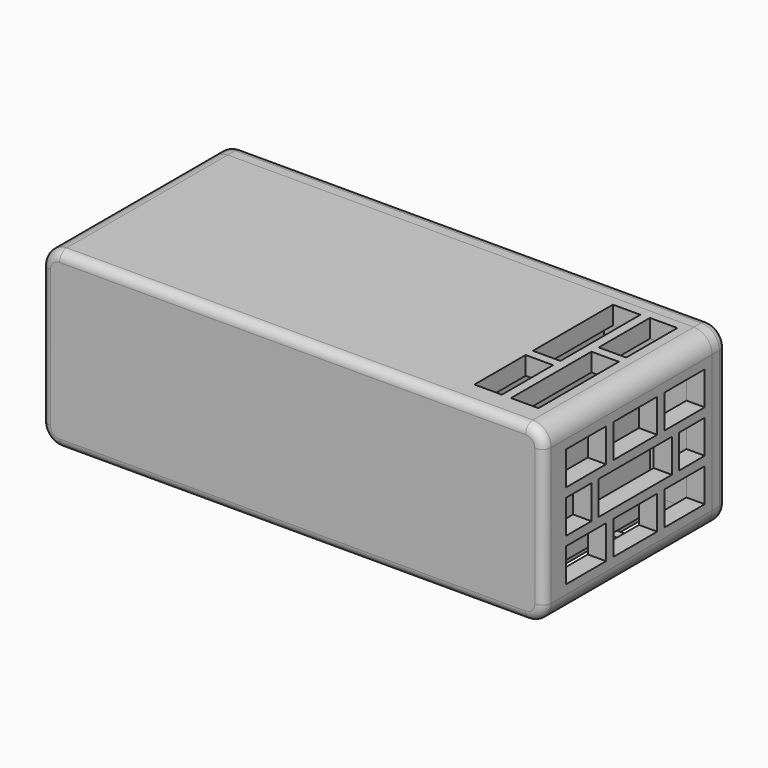
from build123d import *

# Parameters (mm, degrees)
BOX_W                   = 40
BOX_H                   = 19
BOX_DEPTH               = 4
BOX001_W                = 6
BOX001_H                = 8
BOX001_DEPTH            = 3
BOX002_W                = 38
BOX002_H                = 17
BOX002_DEPTH            = 5
BOX003_W                = 13
BOX003_H                = 16
BOX003_DEPTH            = 3
BODY002_PLACEMENT_ANGLE = 90
BOX004_W                = 55
BOX004_H                = 23
BOX004_DEPTH            = 19
SKETCH005_W             = 9
SKETCH005_H             = 15
POCKET_DEPTH            = 21
BOX006_W                = 4
BOX006_H                = 5
BOX006_DEPTH            = 4
SKETCH_W                = 5.5
SKETCH_H                = 3.666667
SKETCH_W_2              = 3.5
SKETCH_H_2              = 3.666666
SKETCH_W_3              = 10
SKETCH_W_4              = 6
POCKET001_DEPTH         = 5
SKETCH006_W             = 11
SKETCH006_H             = 3
SKETCH006_W_2           = 7
SKETCH006_W_3           = 10.939369
POCKET002_DEPTH         = 9.501
POCKET002_DEPTH_BACK    = -9.501
POCKET003_DEPTH         = 2
BOX007_W                = 2
BOX007_H                = 10
BOX007_DEPTH            = 3
FILLET_R                = 2
FILLET004_R             = 1
BOX005_W                = 55
BOX005_H                = 2
BOX005_DEPTH            = 19
CLONE2D_W               = 9
CLONE2D_H               = 15
PAD_DEPTH               = 1
FILLET002_R             = 2
FILLET003_R             = 1


with BuildPart() as stm32:
    # Box → Box (join)
    with BuildSketch(Plane.XY):
        with Locations((20, 9.5)):
            Rectangle(BOX_W, BOX_H)
    extrude(amount=BOX_DEPTH)

    # Box001 → Box001 (join)
    with BuildSketch(Plane(origin=(-1, 5, 2), x_dir=(1, 0, 0), z_dir=(0, 0, 1))):
        with Locations((3, 4)):
            Rectangle(BOX001_W, BOX001_H)
    extrude(amount=BOX001_DEPTH)


with BuildPart() as obj1:
    # Box002 → Box002 (join)
    with BuildSketch(Plane.XY):
        with Locations((19, 8.5)):
            Rectangle(BOX002_W, BOX002_H)
    extrude(amount=BOX002_DEPTH)


with BuildPart() as obj1_1:
    # Body001 placement: moved
    add(obj1.part.moved(Location((2, 1, 8))))


with BuildPart() as obj2:
    # Box003 → Box003 (join)
    with BuildSketch(Plane.XY):
        with Locations((6.5, 8)):
            Rectangle(BOX003_W, BOX003_H)
    extrude(amount=BOX003_DEPTH)


with BuildPart() as obj2_1:
    # Body002 placement: moved
    add(obj2.part.moved(Location((46, 1.5, 13))).rotate(Axis((46, 1.5, 13), (0, 1, 0)), BODY002_PLACEMENT_ANGLE))


with BuildPart() as casebody:
    # Box004 → Box004 (join)
    with BuildSketch(Plane(origin=(-2, -2, -2), x_dir=(1, 0, 0), z_dir=(0, 0, 1))):
        with Locations((27.5, 11.5)):
            Rectangle(BOX004_W, BOX004_H)
    extrude(amount=BOX004_DEPTH)

    # Sketch005 (on Face4 of Box004) → Pocket (cut)
    with BuildSketch(Plane(origin=(-2, 21, -2), x_dir=(-1, 0, 0), z_dir=(0, 1, 0))):
        Polygon((-2, 2), (-2, 7), (-6, 7), (-6, 10), (-2, 10), (-2, 17), (-42, 17), (-42, 10), (-41, 10), (-41, 6), (-42, 6), (-42, 2), align=None)
        with Locations((-48.5, 9.5)):
            Rectangle(SKETCH005_W, SKETCH005_H)
    extrude(amount=-POCKET_DEPTH, mode=Mode.SUBTRACT)

    # Box006 → Box006 (cut)
    with BuildSketch(Plane(origin=(39, 17, 0), x_dir=(1, 0, 0), z_dir=(0, 0, 1))):
        with Locations((2, 2.5)):
            Rectangle(BOX006_W, BOX006_H)
    extrude(amount=BOX006_DEPTH, mode=Mode.SUBTRACT)

    # Sketch (on Face6 of Box006) → Pocket001 (cut)
    with BuildSketch(Plane(origin=(53, 17, 0), x_dir=(0, 1, 0), z_dir=(1, 0, 0))):
        with Locations((-13.25, 12.166666)):
            Rectangle(SKETCH_W, SKETCH_H)
        with Locations((0.25, 12.166666)):
            Rectangle(SKETCH_W, SKETCH_H)
        with Locations((-14.25, 7.5)):
            Rectangle(SKETCH_W_2, SKETCH_H_2)
        with Locations((1.25, 7.5)):
            Rectangle(SKETCH_W_2, SKETCH_H_2)
        with Locations((-13.25, 2.833333)):
            Rectangle(SKETCH_W, SKETCH_H)
        with Locations((0.25, 2.833333)):
            Rectangle(SKETCH_W, SKETCH_H)
        with Locations((-6.5, 7.5)):
            Rectangle(SKETCH_W_3, SKETCH_H_2)
        with Locations((-6.5, 2.833333)):
            Rectangle(SKETCH_W_4, SKETCH_H)
        with Locations((-6.5, 12.166666)):
            Rectangle(SKETCH_W_4, SKETCH_H)
    extrude(amount=-POCKET001_DEPTH, mode=Mode.SUBTRACT)

    # Sketch006 (on DatumPlane) → Pocket002 (cut, two sides)
    with BuildSketch(Plane(origin=(39, 10.5, 7.5), x_dir=(0, 1, 0), z_dir=(0, 0, -1))) as pocket002_sk:
        with Locations((-4, 9.5)):
            Rectangle(SKETCH006_W, SKETCH006_H)
        with Locations((6, 9.5)):
            Rectangle(SKETCH006_W_2, SKETCH006_H)
        with Locations((3.969684, 5.5)):
            Rectangle(SKETCH006_W_3, SKETCH006_H)
        with Locations((-6, 5.5)):
            Rectangle(SKETCH006_W_2, SKETCH006_H)
    extrude(amount=-POCKET002_DEPTH, mode=Mode.SUBTRACT)
    extrude(pocket002_sk.sketch, amount=-POCKET002_DEPTH_BACK, mode=Mode.SUBTRACT)

    # Sketch007 (on Face1 of Pocket002) → Pocket003 (cut)
    with BuildSketch(Plane(origin=(-2, 17, 0), x_dir=(0, -1, 0), z_dir=(-1, 0, 0))):
        Polygon((2.5, 5), (10.5, 5), (10.5, 3), (9.5, 2), (3.5, 2), (2.5, 3), align=None)
    extrude(amount=-POCKET003_DEPTH, mode=Mode.SUBTRACT)

    # Box007 → Box007 (cut)
    with BuildSketch(Plane(origin=(-1, 12, 2), x_dir=(1, 0, 0), z_dir=(0, 0, 1))):
        with Locations((1, 5)):
            Rectangle(BOX007_W, BOX007_H)
    extrude(amount=BOX007_DEPTH, mode=Mode.SUBTRACT)

    # Fillet
    fillet_edges = [casebody.edges().sort_by_distance(p)[0] for p in [
        (-2, 9.5, 17),
        (-2, 9.5, -2),
        (53, 9.5, 17),
        (53, 9.5, -2),
    ]]
    fillet(fillet_edges, radius=FILLET_R)

    # Fillet004
    fillet004_edges = [casebody.edges().sort_by_distance(p)[0] for p in [
        (25.5, -2, -2),
        (-1.414214, -2, -1.414214),
        (52.414214, -2, -1.414214),
        (-2, -2, 7.5),
        (53, -2, 7.5),
        (-1.414214, -2, 16.414214),
        (52.414214, -2, 16.414214),
        (25.5, -2, 17),
    ]]
    fillet(fillet004_edges, radius=FILLET004_R)


with BuildPart() as casecap:
    # Box005 → Box005 (join)
    with BuildSketch(Plane(origin=(-2, -2, -2), x_dir=(1, 0, 0), z_dir=(0, 0, 1))):
        with Locations((27.5, 1)):
            Rectangle(BOX005_W, BOX005_H)
    extrude(amount=BOX005_DEPTH)

    # Clone2D → Pad (join)
    with BuildSketch(Plane(origin=(-2, -2, -2), x_dir=(-1, 0, 0), z_dir=(0, 1, 0))):
        Polygon((-42, 6), (-42, 2), (-2, 2), (-2, 7), (-6, 7), (-6, 10), (-2, 10), (-2, 17), (-42, 17), (-42, 10), (-41, 10), (-41, 6), align=None)
        with Locations((-48.5, 9.5)):
            Rectangle(CLONE2D_W, CLONE2D_H)
    extrude(amount=-PAD_DEPTH)

    # Fillet002
    fillet002_edges = [casecap.edges().sort_by_distance(p)[0] for p in [
        (-2, -1, -2),
        (-2, -1, 17),
        (53, -1, 17),
        (53, -1, -2),
    ]]
    fillet(fillet002_edges, radius=FILLET002_R)

    # Fillet003
    fillet003_edges = [casecap.edges().sort_by_distance(p)[0] for p in [
        (25.5, 0, -2),
        (-1.414214, 0, -1.414214),
        (52.414214, 0, -1.414214),
        (-2, 0, 7.5),
        (53, 0, 7.5),
        (-1.414214, 0, 16.414214),
        (52.414214, 0, 16.414214),
        (25.5, 0, 17),
    ]]
    fillet(fillet003_edges, radius=FILLET003_R)


with BuildPart() as casecap_1:
    # Body004 placement: moved
    add(casecap.part.moved(Location((0, 23, 0))))


solid = Compound([stm32.part, obj1_1.part, obj2_1.part, casebody.part, casecap_1.part])
